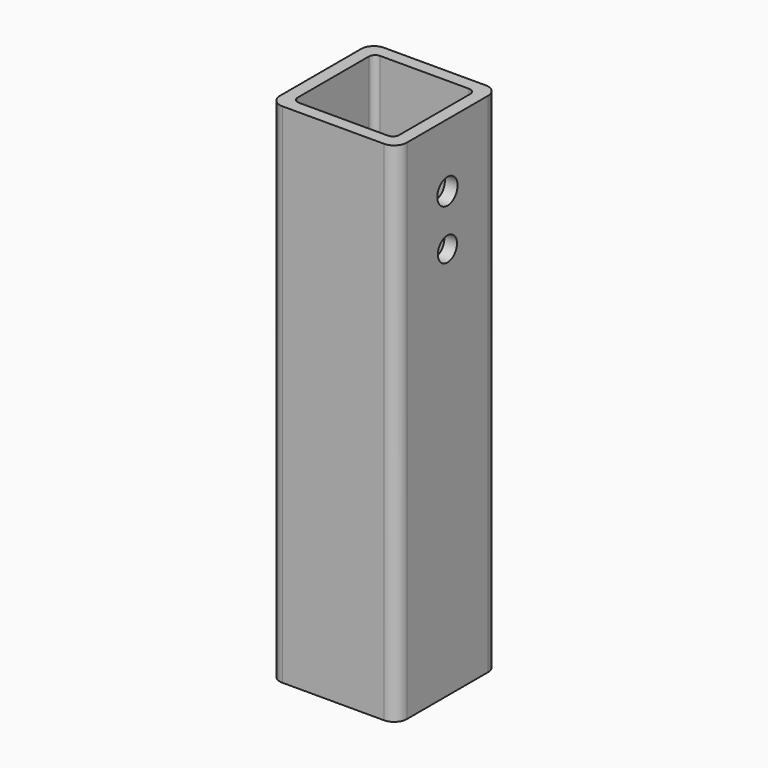
from build123d import *

# Parameters (mm, degrees)
F1_DEPTH = 127
F3_DEPTH = 127
F4_R     = 3.175
F4_R_2   = 2.994617
F5_DEPTH = 31.75


with BuildPart() as f1:
    # F0 (on Top) → F1 (new body)
    with BuildSketch(Plane.XY):
        with BuildLine():
            ThreePointArc((0, 3.175), (0.929936, 0.929936), (3.175, 0))
            Line((3.175, 0), (28.575, 0))
            ThreePointArc((28.575, 0), (30.820064, 0.929936), (31.75, 3.175))
            Line((31.75, 3.175), (31.75, 28.575))
            ThreePointArc((31.75, 28.575), (30.820064, 30.820064), (28.575, 31.75))
            Line((28.575, 31.75), (3.175, 31.75))
            ThreePointArc((3.175, 31.75), (0.929936, 30.820064), (0, 28.575))
            Line((0, 28.575), (0, 3.175))
        make_face()
    extrude(amount=F1_DEPTH)

    # F2 (on Top) → F3 (cut)
    with BuildSketch(Plane.XY):
        with BuildLine():
            ThreePointArc((3.175, 4.7625), (3.639968, 3.639968), (4.7625, 3.175))
            Line((4.7625, 3.175), (26.9875, 3.175))
            ThreePointArc((26.9875, 3.175), (28.110032, 3.639968), (28.575, 4.7625))
            Line((28.575, 4.7625), (28.575, 26.9875))
            ThreePointArc((28.575, 26.9875), (28.110032, 28.110032), (26.9875, 28.575))
            Line((26.9875, 28.575), (4.7625, 28.575))
            ThreePointArc((4.7625, 28.575), (3.639968, 28.110032), (3.175, 26.9875))
            Line((3.175, 26.9875), (3.175, 4.7625))
        make_face()
    extrude(amount=F3_DEPTH, mode=Mode.SUBTRACT)

    # F4 (on Right) → F5 (cut)
    with BuildSketch(Plane.YZ):
        with Locations((15.875, 111.125)):
            Circle(F4_R)
        with Locations((15.875, 98.425)):
            Circle(F4_R_2)
    extrude(amount=F5_DEPTH, mode=Mode.SUBTRACT)


solid = f1.part
